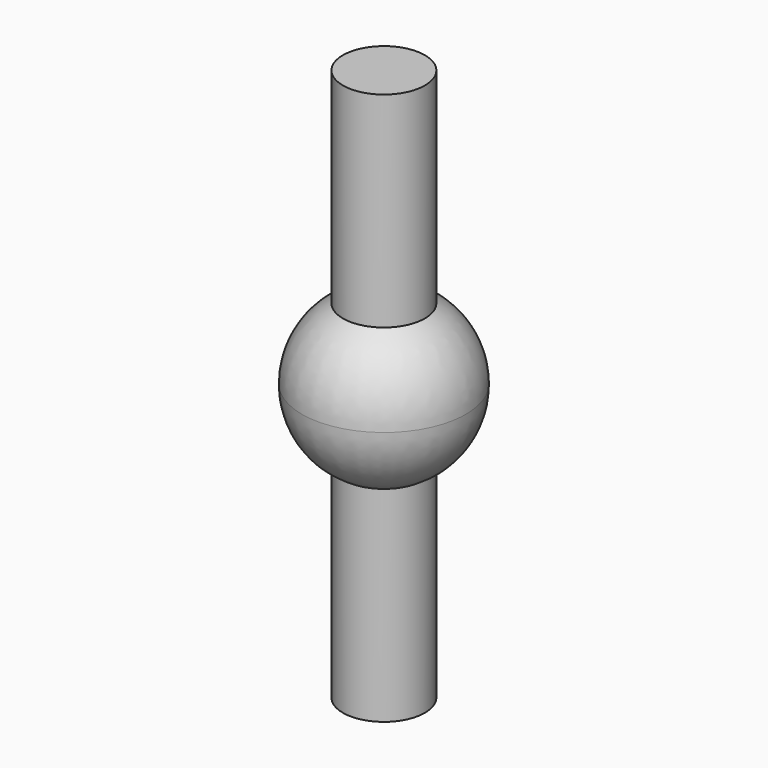
from build123d import *


with BuildPart() as f1:
    # F0 (on Front) → F1 (revolve)
    with BuildSketch(Plane.XZ):
        with BuildLine():
            ThreePointArc((-1, 1.732051), (-1.732051, 1), (-2, 0))
            ThreePointArc((-2, 0), (-1.732051, -1), (-1, -1.732051))
            Line((-1, -1.732051), (-1, -6.732051))
            Line((-1, -6.732051), (0, -6.732051))
            Line((0, -6.732051), (0, 6.732051))
            Line((0, 6.732051), (-1, 6.732051))
            Line((-1, 6.732051), (-1, 1.732051))
        make_face()
    revolve(axis=Axis((0, 0, 0), (0, 0, -1)))


solid = f1.part
